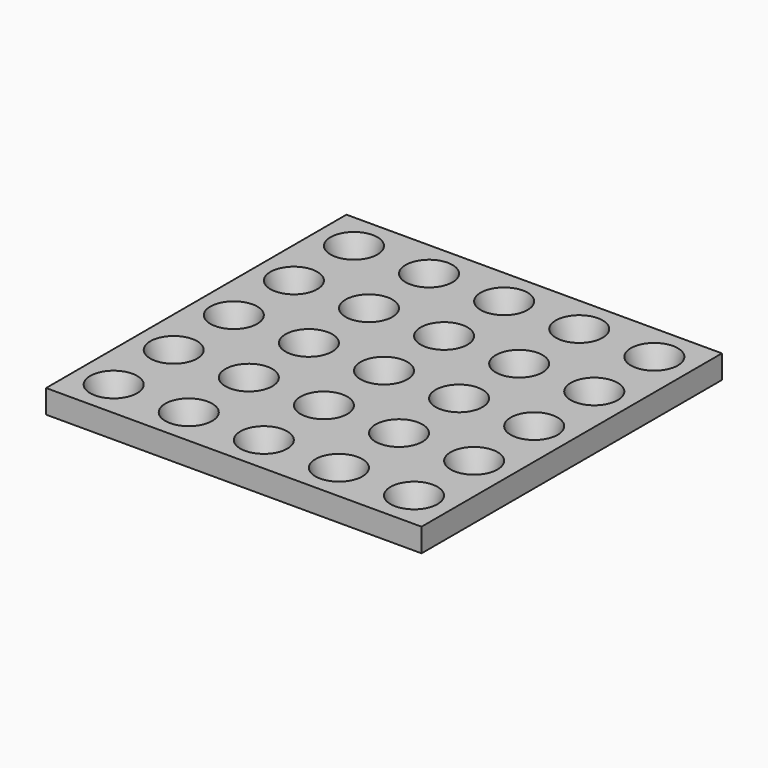
from build123d import *

# Parameters (mm, degrees)
ARRAY002_X_COUNT = 5
ARRAY002_X_PITCH = 32
ARRAY002_Y_COUNT = 5
ARRAY002_Y_PITCH = 32
BOX001_W         = 160
BOX001_H         = 160
BOX001_DEPTH     = 10


with BuildPart() as sphere001:
    # Sphere001 → Sphere001 (revolve)
    with BuildSketch(Plane(origin=(0, 0, 36), x_dir=(1, 0, 0), z_dir=(0, -1, 0))):
        with BuildLine():
            ThreePointArc((0, -5), (5, 0), (0, 5))
            Line((0, 5), (0, -5))
        make_face()
    revolve(axis=Axis((0, 0, 36), (0, 0, 1)))


with BuildPart() as obj1:
    # Cone001 → Cone001 (revolve)
    with BuildSketch(Plane(origin=(0, 0, 38), x_dir=(1, 0, 0), z_dir=(0, -1, 0))):
        Polygon((0, 0), (7, 0), (10, 10), (0, 10), align=None)
    revolve(axis=Axis((0, 0, 38), (0, 0, 1)))

    # Cut001: cut Sphere001
    add(sphere001.part, mode=Mode.SUBTRACT)


with BuildPart() as obj1_1:
    # Cut001 placement: moved
    add(obj1.part.moved(Location((16, 16, -38))))

    # Array002 X: obj1 ×5


with BuildPart() as obj1_2:
    add(obj1_1.part)
    with Locations(*[(i * ARRAY002_X_PITCH, 0, 0) for i in range(1, ARRAY002_X_COUNT)]):
        add(obj1_1.part)

    # Array002 Y: obj1 ×5


with BuildPart() as obj1_3:
    add(obj1_2.part)
    with Locations(*[(0, i * ARRAY002_Y_PITCH, 0) for i in range(1, ARRAY002_Y_COUNT)]):
        add(obj1_2.part)


with BuildPart() as obj2:
    # Box001 → Box001 (new body)
    with BuildSketch(Plane.XY):
        with Locations((80, 80)):
            Rectangle(BOX001_W, BOX001_H)
    extrude(amount=BOX001_DEPTH)

    # Cut002: cut obj1
    add(obj1_3.part, mode=Mode.SUBTRACT)


solid = obj2.part
